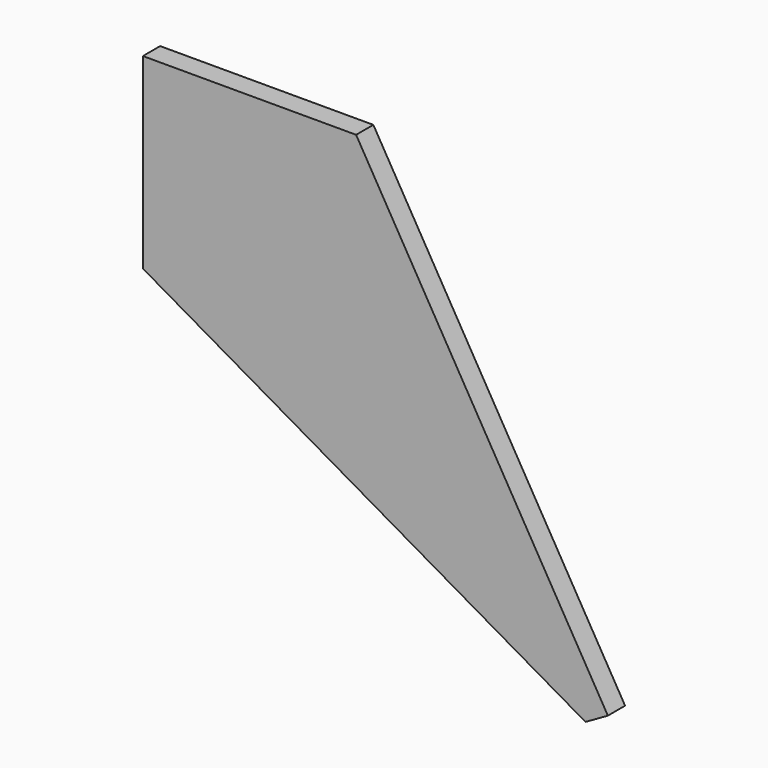
from build123d import *

# Parameters (mm, degrees)
F0_W     = 820
F0_H     = 780
F1_DEPTH = 19
F3_DEPTH = 38.001


with BuildPart() as f1:
    # F0 (on Front) → F1 (new body, symmetric)
    with BuildSketch(Plane.XZ):
        Rectangle(F0_W, F0_H)
    extrude(amount=F1_DEPTH, both=True)

    # F2 (on face) → F3 (cut, through all)
    with BuildSketch(Plane.XZ.offset(19)):
        Polygon((-34, 390), (410, -367.46155), (410, 390), align=None)
        Polygon((370.57735, -390), (-410, 60), (-410, -390), align=None)
        Polygon((410, -367.46155), (370.57735, -390), (410, -390), align=None)
    extrude(amount=-F3_DEPTH, mode=Mode.SUBTRACT)


solid = f1.part
